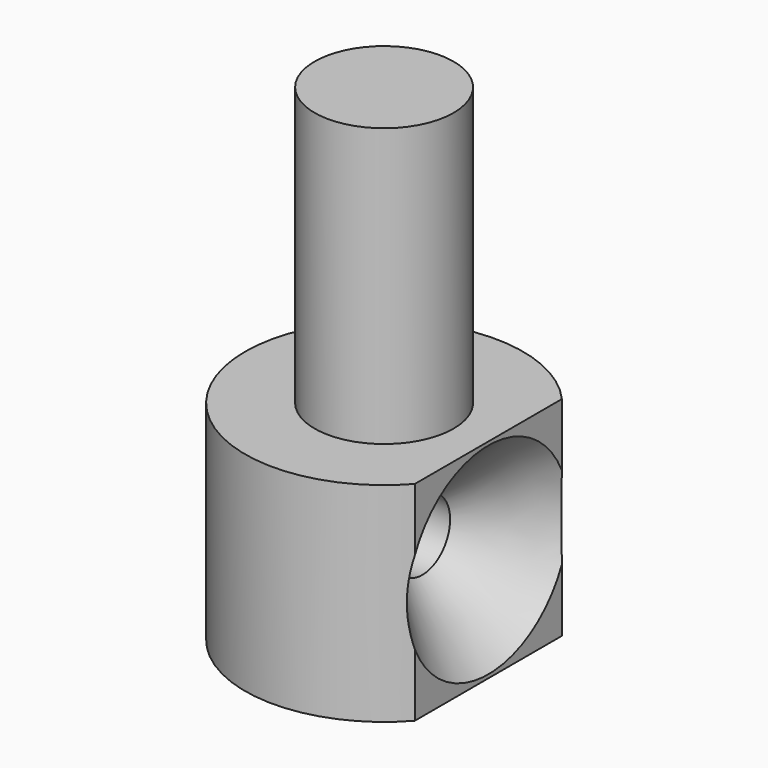
from build123d import *

# Parameters (mm, degrees)
F0_R           = 1
F1_DEPTH       = 4
F2_R           = 2
F3_DEPTH       = 3
F6_D           = 1
F6_CSINK_D     = 2.9
F6_CSINK_ANGLE = 90
F7_W           = 3.740538
F7_H           = 4.958128
F8_DEPTH       = 25
F8_DEPTH_BACK  = 25


with BuildPart() as f1:
    # F0 (on Top) → F1 (new body)
    with BuildSketch(Plane.XY):
        Circle(F0_R)
    extrude(amount=F1_DEPTH)

    # F2 (on face) → F3 (join)
    with BuildSketch(Plane(origin=(0, 0, 0), x_dir=(1, 0, 0), z_dir=(0, 0, -1))):
        Circle(F2_R)
    extrude(amount=F3_DEPTH)

    # F6 (through all)
    with Locations(Plane.YZ.offset(1.5)):
        with Locations((0, -1.5)):
            CounterSinkHole(F6_D / 2, F6_CSINK_D / 2, counter_sink_angle=F6_CSINK_ANGLE)

    # F7 (on Front) → F8 (cut, two sides)
    with BuildSketch(Plane.XZ) as f8_sk:
        with Locations((3.370269, -2.379064)):
            Rectangle(F7_W, F7_H)
    extrude(amount=F8_DEPTH, mode=Mode.SUBTRACT)
    extrude(f8_sk.sketch, amount=-F8_DEPTH_BACK, mode=Mode.SUBTRACT)


solid = f1.part
